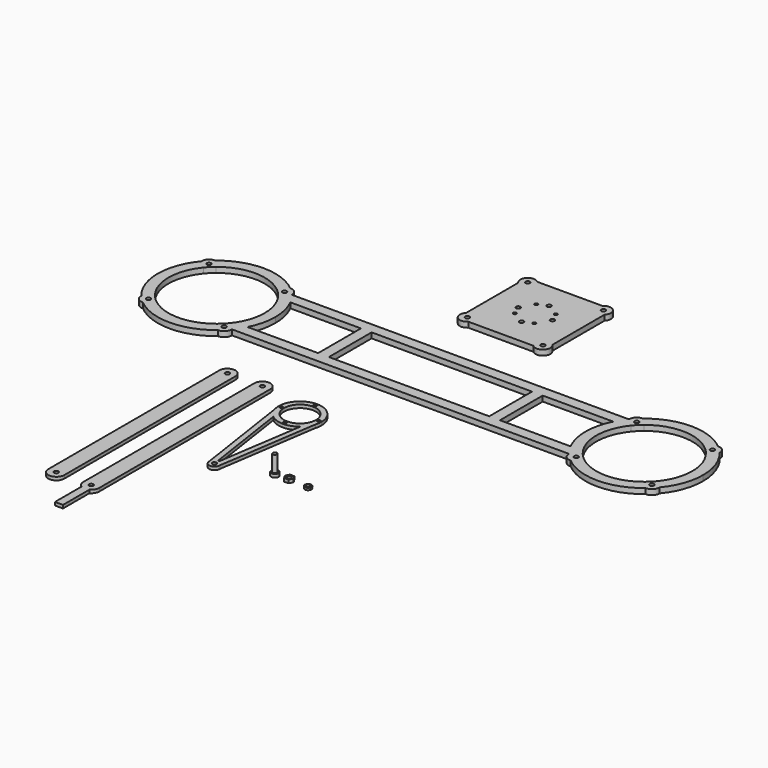
from build123d import *

# Parameters (mm, degrees)
F2_DEPTH  = 3
F1_R      = 1.5
F1_R_2    = 2
F3_R      = 3.5
F4_DEPTH  = 3
F3_R_2    = 2
F3_R_3    = 3
F5_DEPTH  = 1
F6_R      = 3.1
F6_R_2    = 3
F6_R_3    = 2
F8_DEPTH  = 0.5
F7_R      = 3.1
F7_R_2    = 2
F9_DEPTH  = 0.5
F11_DEPTH = 2
F12_R     = 2
F13_DEPTH = 15
F14_R     = 2
F14_W     = 10
F14_H     = 50
F15_DEPTH = 5
F16_R     = 2
F16_R_2   = 1.5
F17_DEPTH = 5


with BuildPart() as f2:
    # F1 (on Top) → F2 (new body)
    with BuildSketch(Plane.XY):
        with BuildLine():
            ThreePointArc((-126.6536758628, 100), (-119.1536758628, 92.5), (-111.6536758628, 100))
            Line((-111.6536758628, 100), (-117.1536758628, 100))
            ThreePointArc((-117.1536758628, 100), (-119.1536758628, 98), (-121.1536758628, 100))
            Line((-121.1536758628, 100), (-126.6536758628, 100))
        make_face()
        with BuildLine():
            Line((-117.1536758628, 100), (-111.6536758628, 100))
            ThreePointArc((-111.6536758628, 100), (-119.1536758628, 107.5), (-126.6536758628, 100))
            Line((-126.6536758628, 100), (-121.1536758628, 100))
            ThreePointArc((-121.1536758628, 100), (-119.1536758628, 102), (-117.1536758628, 100))
        make_face()
        with BuildLine():
            Line((-111.6536758628, -100), (-111.6536758628, 100))
            ThreePointArc((-111.6536758628, 100), (-119.1536758628, 92.5), (-126.6536758628, 100))
            Line((-126.6536758628, 100), (-126.6536758628, -100))
            ThreePointArc((-126.6536758628, -100), (-119.1536758628, -92.5), (-111.6536758628, -100))
        make_face()
        with BuildLine():
            ThreePointArc((-126.6536758628, -100), (-119.1536758628, -107.5), (-111.6536758628, -100))
            Line((-111.6536758628, -100), (-117.1536758628, -100))
            ThreePointArc((-117.1536758628, -100), (-119.1536758628, -102), (-121.1536758628, -100))
            Line((-121.1536758628, -100), (-126.6536758628, -100))
        make_face()
        with BuildLine():
            Line((-117.1536758628, -100), (-111.6536758628, -100))
            ThreePointArc((-111.6536758628, -100), (-119.1536758628, -92.5), (-126.6536758628, -100))
            Line((-126.6536758628, -100), (-121.1536758628, -100))
            ThreePointArc((-121.1536758628, -100), (-119.1536758628, -98), (-117.1536758628, -100))
        make_face()
    extrude(amount=F2_DEPTH)


with BuildPart() as f2b:
    # F1 (on Top) → F2, piece 2 (new body)
    with BuildSketch(Plane.XY):
        with BuildLine():
            ThreePointArc((-94.0209400654, 100), (-86.5209400654, 92.5), (-79.0209400654, 100))
            Line((-79.0209400654, 100), (-84.5209400654, 100))
            ThreePointArc((-84.5209400654, 100), (-86.5209400654, 98), (-88.5209400654, 100))
            Line((-88.5209400654, 100), (-94.0209400654, 100))
        make_face()
        with BuildLine():
            Line((-84.5209400654, 100), (-79.0209400654, 100))
            ThreePointArc((-79.0209400654, 100), (-86.5209400654, 107.5), (-94.0209400654, 100))
            Line((-94.0209400654, 100), (-88.5209400654, 100))
            ThreePointArc((-88.5209400654, 100), (-86.5209400654, 102), (-84.5209400654, 100))
        make_face()
        with BuildLine():
            Line((-79.0209400654, -100), (-79.0209400654, 100))
            ThreePointArc((-79.0209400654, 100), (-86.5209400654, 92.5), (-94.0209400654, 100))
            Line((-94.0209400654, 100), (-94.0209400654, -100))
            ThreePointArc((-94.0209400654, -100), (-86.5209400654, -92.5), (-79.0209400654, -100))
        make_face()
        with BuildLine():
            ThreePointArc((-82.9319413497, -106.5855211046), (-80.072394091, -103.8296546602), (-79.0209400654, -100))
            Line((-79.0209400654, -100), (-84.5209400654, -100))
            ThreePointArc((-84.5209400654, -100), (-86.5209400654, -102), (-88.5209400654, -100))
            Line((-88.5209400654, -100), (-94.0209400654, -100))
            ThreePointArc((-94.0209400654, -100), (-93.0624425546, -103.6686162492), (-90.4319413497, -106.3995366203))
            ThreePointArc((-90.4319413497, -106.3995366203), (-86.7068673917, -107.4976950478), (-82.9319413497, -106.5855211046))
        make_face()
        with BuildLine():
            Line((-84.5209400654, -100), (-79.0209400654, -100))
            ThreePointArc((-79.0209400654, -100), (-86.5209400654, -92.5), (-94.0209400654, -100))
            Line((-94.0209400654, -100), (-88.5209400654, -100))
            ThreePointArc((-88.5209400654, -100), (-86.5209400654, -98), (-84.5209400654, -100))
        make_face()
        with BuildLine():
            Line((-82.9319413497, -137.4982717066), (-82.9319413497, -106.5855211046))
            ThreePointArc((-82.9319413497, -106.5855211046), (-86.7068673917, -107.4976950478), (-90.4319413497, -106.3995366203))
            Line((-90.4319413497, -106.3995366203), (-90.4319413497, -137.4982717066))
            Line((-90.4319413497, -137.4982717066), (-82.9319413497, -137.4982717066))
        make_face()
    extrude(amount=F2_DEPTH)


with BuildPart() as f2c:
    # F1 (on Top) → F2, piece 3 (new body)
    with BuildSketch(Plane.XY):
        with BuildLine():
            Line((-18.4389891736, 77.0106934758), (-17.5587935746, 82.8786641359))
            ThreePointArc((-17.5587935746, 82.8786641359), (-37.5587935746, 102.8786641359), (-57.5587935746, 82.8786641359))
            Line((-57.5587935746, 82.8786641359), (-56.6785979755, 77.0106934758))
            ThreePointArc((-56.6785979755, 77.0106934758), (-54.1442857163, 71.7018376446), (-50.1750510415, 67.3599642056))
            ThreePointArc((-50.1750510415, 67.3599642056), (-37.5587928638, 62.8786641359), (-24.9425350045, 67.3599651024))
            ThreePointArc((-24.9425350045, 67.3599651024), (-20.9733010356, 71.7018382341), (-18.4389891736, 77.0106934758))
        make_face()
        with Locations((-55.0587935746, 82.8786641359)):
            Circle(F1_R, mode=Mode.SUBTRACT)
        with Locations((-37.5587935746, 65.3786641359)):
            Circle(F1_R, mode=Mode.SUBTRACT)
        with BuildLine():
            ThreePointArc((-22.562790708, 83.2249270793), (-22.5597928912, 83.0518071426), (-22.5587935746, 82.8786641359))
            ThreePointArc((-22.5587935746, 82.8786641359), (-37.7319393797, 67.8796634849), (-52.5547963119, 83.2249326751))
            ThreePointArc((-52.5547963119, 83.2249326751), (-37.5587907759, 97.8786641359), (-22.562790708, 83.2249270793))
        make_face(mode=Mode.SUBTRACT)
        with Locations((-37.5587935746, 100.3786641359)):
            Circle(F1_R, mode=Mode.SUBTRACT)
        with Locations((-20.0587935746, 82.8786641359)):
            Circle(F1_R, mode=Mode.SUBTRACT)
        with BuildLine():
            ThreePointArc((-18.4389891736, 77.0106934758), (-17.7800665172, 79.9118550773), (-17.5587935746, 82.8786641359))
            Line((-17.5587935746, 82.8786641359), (-18.4389891736, 77.0106934758))
        make_face()
        with BuildLine():
            Line((-56.6785979755, 77.0106934758), (-57.5587935746, 82.8786641359))
            ThreePointArc((-57.5587935746, 82.8786641359), (-57.3375206319, 79.9118550773), (-56.6785979755, 77.0106934758))
        make_face()
        with BuildLine():
            Line((-32.5587935746, -17.1213358641), (-18.4389891736, 77.0106934758))
            ThreePointArc((-18.4389891736, 77.0106934758), (-20.9733010356, 71.7018382341), (-24.9425350045, 67.3599651024))
            Line((-24.9425350045, 67.3599651024), (-36.871842401, -12.1687508739))
            ThreePointArc((-36.871842401, -12.1687508739), (-33.7881997309, -13.8376455519), (-32.5587935746, -17.1213358641))
        make_face()
        with BuildLine():
            ThreePointArc((-50.1750510415, 67.3599642056), (-54.1442857163, 71.7018376446), (-56.6785979755, 77.0106934758))
            Line((-56.6785979755, 77.0106934758), (-42.5587935746, -17.1213358641))
            ThreePointArc((-42.5587935746, -17.1213358641), (-41.3293871037, -13.8376451907), (-38.2457437993, -12.1687507423))
            Line((-38.2457437993, -12.1687507423), (-50.1750510415, 67.3599642056))
        make_face()
        with BuildLine():
            ThreePointArc((-42.5587935746, -17.1213358641), (-37.5587935746, -22.1213358641), (-32.5587935746, -17.1213358641))
            ThreePointArc((-32.5587935746, -17.1213358641), (-33.7881997309, -13.8376455519), (-36.871842401, -12.1687508739))
            ThreePointArc((-36.871842401, -12.1687508739), (-37.5587930956, -12.1213358641), (-38.2457437993, -12.1687507423))
            ThreePointArc((-38.2457437993, -12.1687507423), (-41.3293871037, -13.8376451907), (-42.5587935746, -17.1213358641))
        make_face()
        with Locations((-37.5587935746, -17.1213358641)):
            Circle(F1_R_2, mode=Mode.SUBTRACT)
    extrude(amount=F2_DEPTH)


with BuildPart() as f4:
    # F3 (on Top) → F4 (new body)
    with BuildSketch(Plane.XY):
        with Locations((5.2804468024, 0)):
            Circle(F3_R)
    extrude(amount=F4_DEPTH)

    # F10 (on face) → F11 (cut)
    with BuildSketch(Plane(origin=(0, 0, 0), x_dir=(1, 0, 0), z_dir=(0, 0, -1))):
        Polygon((4.125746264, -2), (6.4351473408, -2), (7.5898478791, 0), (6.4351473408, 2), (4.125746264, 2), (2.9710457256, 0), align=None)
    extrude(amount=-F11_DEPTH, mode=Mode.SUBTRACT)

    # F12 (on face) → F13 (join)
    with BuildSketch(Plane.XY.offset(3)):
        with Locations((5.2804468024, 0)):
            Circle(F12_R)
    extrude(amount=F13_DEPTH)


with BuildPart() as f4b:
    # F3 (on Top) → F4, piece 2 (new body)
    with BuildSketch(Plane.XY):
        Polygon((16.6168921078, -3.5), (20.6583439921, -3.5), (22.6790699343, 0), (20.6583439921, 3.5), (16.6168921078, 3.5), (14.5961661657, 0), align=None)
        with Locations((18.63761805, 0)):
            Circle(F3_R_2, mode=Mode.SUBTRACT)
    extrude(amount=F4_DEPTH)


with BuildPart() as f5:
    # F3 (on Top) → F5 (new body)
    with BuildSketch(Plane.XY):
        with Locations((36.2847968936, 0)):
            Circle(F3_R_3)
        with Locations((36.2847968936, 0)):
            Circle(F3_R_2, mode=Mode.SUBTRACT)
    extrude(amount=F5_DEPTH)

    # F6 (on face) → F8 (join)
    with BuildSketch(Plane.XY.offset(1)):
        with Locations((36.2847968936, 0)):
            Circle(F6_R)
        with Locations((36.2847968936, 0)):
            Circle(F6_R_2, mode=Mode.SUBTRACT)
        with Locations((36.2847968936, 0)):
            Circle(F6_R_2)
        with Locations((36.2847968936, 0)):
            Circle(F6_R_3, mode=Mode.SUBTRACT)
    extrude(amount=F8_DEPTH)

    # F7 (on face) → F9 (join)
    with BuildSketch(Plane.XY):
        with Locations((36.2847968936, 0)):
            Circle(F7_R)
        with Locations((36.2847968936, 0)):
            Circle(F7_R_2, mode=Mode.SUBTRACT)
    extrude(amount=-F9_DEPTH)


with BuildPart() as f15:
    # F14 (on Top) → F15 (new body)
    with BuildSketch(Plane.XY):
        with BuildLine():
            ThreePointArc((157.5735931288, 153.3589458766), (154.0192378865, 158.1799877193), (151.0102051443, 163.3589458766))
            Line((151.0102051443, 163.3589458766), (85, 163.3589458766))
            Line((85, 163.3589458766), (75, 163.3589458766))
            Line((75, 163.3589458766), (-75, 163.3589458766))
            Line((-75, 163.3589458766), (-85, 163.3589458766))
            Line((-85, 163.3589458766), (-151.0102051443, 163.3589458766))
            ThreePointArc((-151.0102051443, 163.3589458766), (-154.0192378865, 158.1799877193), (-157.5735931288, 153.3589458766))
            Line((-157.5735931288, 153.3589458766), (157.5735931288, 153.3589458766))
        make_face()
        with BuildLine():
            ThreePointArc((151.0102051443, 213.3589458766), (145, 188.3589458766), (151.0102051443, 163.3589458766))
            ThreePointArc((151.0102051443, 163.3589458766), (154.0192378865, 158.1799877193), (157.5735931288, 153.3589458766))
            ThreePointArc((157.5735931288, 153.3589458766), (157.611580566, 153.3129489883), (157.6496178711, 153.2669933299))
            ThreePointArc((157.6496178711, 153.2669933299), (159.943664009, 158.1901883358), (165.0679498346, 159.9907969901))
            ThreePointArc((165.0679498346, 159.9907969901), (155, 188.3589458766), (165.0679498346, 216.727094763))
            ThreePointArc((165.0679498346, 216.727094763), (159.943664009, 218.5277034173), (157.6496178711, 223.4508984232))
            ThreePointArc((157.6496178711, 223.4508984232), (157.611580566, 223.4049427648), (157.5735931288, 223.3589458766))
            ThreePointArc((157.5735931288, 223.3589458766), (154.0192378865, 218.5379040338), (151.0102051443, 213.3589458766))
        make_face()
        with BuildLine():
            Line((85, 213.3589458766), (151.0102051443, 213.3589458766))
            ThreePointArc((151.0102051443, 213.3589458766), (154.0192378865, 218.5379040338), (157.5735931288, 223.3589458766))
            Line((157.5735931288, 223.3589458766), (-157.5735931288, 223.3589458766))
            ThreePointArc((-157.5735931288, 223.3589458766), (-154.0192378865, 218.5379040338), (-151.0102051443, 213.3589458766))
            Line((-151.0102051443, 213.3589458766), (-85, 213.3589458766))
            Line((-85, 213.3589458766), (-75, 213.3589458766))
            Line((-75, 213.3589458766), (75, 213.3589458766))
            Line((75, 213.3589458766), (85, 213.3589458766))
        make_face()
        with BuildLine():
            ThreePointArc((-157.6496178711, 153.2669933299), (-157.611580566, 153.3129489883), (-157.5735931288, 153.3589458766))
            ThreePointArc((-157.5735931288, 153.3589458766), (-154.0192378865, 158.1799877193), (-151.0102051443, 163.3589458766))
            Line((-151.0102051443, 163.3589458766), (-162.5834261323, 163.3589458766))
            ThreePointArc((-162.5834261323, 163.3589458766), (-163.7865086383, 161.6459706885), (-165.0679498346, 159.9907969901))
            ThreePointArc((-165.0679498346, 159.9907969901), (-159.943664009, 158.1901883358), (-157.6496178711, 153.2669933299))
        make_face()
        with BuildLine():
            ThreePointArc((165.0679498346, 159.9907969901), (159.943664009, 158.1901883358), (157.6496178711, 153.2669933299))
            ThreePointArc((157.6496178711, 153.2669933299), (161.1091270347, 149.4680729113), (164.9080474533, 146.0085637477))
            ThreePointArc((164.9080474533, 146.0085637477), (169.6866697461, 148.1478733808), (171.6446609407, 153.0036068172))
            ThreePointArc((171.6446609407, 153.0036068172), (171.641457751, 153.2153481567), (171.6318511136, 153.4268957112))
            ThreePointArc((171.6318511136, 153.4268957112), (168.1801948466, 156.5391407232), (165.0679498346, 159.9907969901))
        make_face()
        with Locations((164.6446609407, 153.0036068172)):
            Circle(F14_R, mode=Mode.SUBTRACT)
        with BuildLine():
            ThreePointArc((164.9080474533, 146.0085637477), (161.1091270347, 149.4680729113), (157.6496178711, 153.2669933299))
            ThreePointArc((157.6496178711, 153.2669933299), (159.6949134724, 148.0538593489), (164.9080474533, 146.0085637477))
        make_face()
        with BuildLine():
            ThreePointArc((164.9080474533, 230.7093280054), (159.6949134724, 228.6640324042), (157.6496178711, 223.4508984232))
            ThreePointArc((157.6496178711, 223.4508984232), (161.1091270347, 227.2498188418), (164.9080474533, 230.7093280054))
        make_face()
        with BuildLine():
            ThreePointArc((164.9080474533, 230.7093280054), (161.1091270347, 227.2498188418), (157.6496178711, 223.4508984232))
            ThreePointArc((157.6496178711, 223.4508984232), (159.943664009, 218.5277034173), (165.0679498346, 216.727094763))
            ThreePointArc((165.0679498346, 216.727094763), (168.1801948466, 220.1787510299), (171.6318511136, 223.2909960419))
            ThreePointArc((171.6318511136, 223.2909960419), (171.641457751, 223.5025435964), (171.6446609407, 223.7142849359))
            ThreePointArc((171.6446609407, 223.7142849359), (169.6866697461, 228.5700183723), (164.9080474533, 230.7093280054))
        make_face()
        with Locations((164.6446609407, 223.7142849359)):
            Circle(F14_R, mode=Mode.SUBTRACT)
        with BuildLine():
            ThreePointArc((-151.0102051443, 213.3589458766), (-154.0192378865, 218.5379040338), (-157.5735931288, 223.3589458766))
            ThreePointArc((-157.5735931288, 223.3589458766), (-157.611580566, 223.4049427648), (-157.6496178711, 223.4508984232))
            ThreePointArc((-157.6496178711, 223.4508984232), (-159.943664009, 218.5277034173), (-165.0679498346, 216.727094763))
            ThreePointArc((-165.0679498346, 216.727094763), (-163.7865086383, 215.0719210646), (-162.5834261323, 213.3589458766))
            Line((-162.5834261323, 213.3589458766), (-151.0102051443, 213.3589458766))
        make_face()
        with BuildLine():
            ThreePointArc((-157.6446609407, 153.0036068172), (-157.645900283, 153.1353233938), (-157.6496178711, 153.2669933299))
            ThreePointArc((-157.6496178711, 153.2669933299), (-161.1091270347, 149.4680729113), (-164.9080474533, 146.0085637477))
            ThreePointArc((-164.9080474533, 146.0085637477), (-159.7889275042, 147.9615980118), (-157.6446609407, 153.0036068172))
        make_face()
        with BuildLine():
            ThreePointArc((-164.9080474533, 146.0085637477), (-161.1091270347, 149.4680729113), (-157.6496178711, 153.2669933299))
            ThreePointArc((-157.6496178711, 153.2669933299), (-159.943664009, 158.1901883358), (-165.0679498346, 159.9907969901))
            ThreePointArc((-165.0679498346, 159.9907969901), (-168.1801948466, 156.5391407232), (-171.6318511136, 153.4268957112))
            ThreePointArc((-171.6318511136, 153.4268957112), (-169.8312424592, 148.3026098856), (-164.9080474533, 146.0085637477))
        make_face()
        with Locations((-164.6446609407, 153.0036068172)):
            Circle(F14_R, mode=Mode.SUBTRACT)
        with BuildLine():
            ThreePointArc((171.6446609407, 153.0036068172), (169.6866697461, 148.1478733808), (164.9080474533, 146.0085637477))
            ThreePointArc((164.9080474533, 146.0085637477), (200, 133.3589458766), (235.0919525467, 146.0085637477))
            ThreePointArc((235.0919525467, 146.0085637477), (230.1687575408, 148.3026098856), (228.3681488864, 153.4268957112))
            ThreePointArc((228.3681488864, 153.4268957112), (200, 143.3589458766), (171.6318511136, 153.4268957112))
            ThreePointArc((171.6318511136, 153.4268957112), (171.641457751, 153.2153481567), (171.6446609407, 153.0036068172))
        make_face()
        with BuildLine():
            ThreePointArc((235.0919525467, 230.7093280054), (200, 243.3589458766), (164.9080474533, 230.7093280054))
            ThreePointArc((164.9080474533, 230.7093280054), (169.6866697461, 228.5700183723), (171.6446609407, 223.7142849359))
            ThreePointArc((171.6446609407, 223.7142849359), (171.641457751, 223.5025435964), (171.6318511136, 223.2909960419))
            ThreePointArc((171.6318511136, 223.2909960419), (200, 233.3589458766), (228.3681488864, 223.2909960419))
            ThreePointArc((228.3681488864, 223.2909960419), (230.1687575408, 228.4152818675), (235.0919525467, 230.7093280054))
        make_face()
        with BuildLine():
            ThreePointArc((-165.0679498346, 216.727094763), (-159.943664009, 218.5277034173), (-157.6496178711, 223.4508984232))
            ThreePointArc((-157.6496178711, 223.4508984232), (-161.1091270347, 227.2498188418), (-164.9080474533, 230.7093280054))
            ThreePointArc((-164.9080474533, 230.7093280054), (-169.8312424592, 228.4152818675), (-171.6318511136, 223.2909960419))
            ThreePointArc((-171.6318511136, 223.2909960419), (-168.1801948466, 220.1787510299), (-165.0679498346, 216.727094763))
        make_face()
        with Locations((-164.6446609407, 223.7142849359)):
            Circle(F14_R, mode=Mode.SUBTRACT)
        with BuildLine():
            ThreePointArc((-164.9080474533, 230.7093280054), (-161.1091270347, 227.2498188418), (-157.6496178711, 223.4508984232))
            ThreePointArc((-157.6496178711, 223.4508984232), (-157.645900283, 223.5825683593), (-157.6446609407, 223.7142849359))
            ThreePointArc((-157.6446609407, 223.7142849359), (-159.7889275042, 228.7562937413), (-164.9080474533, 230.7093280054))
        make_face()
        with BuildLine():
            ThreePointArc((-235.0919525467, 146.0085637477), (-200, 133.3589458766), (-164.9080474533, 146.0085637477))
            ThreePointArc((-164.9080474533, 146.0085637477), (-169.8312424592, 148.3026098856), (-171.6318511136, 153.4268957112))
            ThreePointArc((-171.6318511136, 153.4268957112), (-200, 143.3589458766), (-228.3681488864, 153.4268957112))
            ThreePointArc((-228.3681488864, 153.4268957112), (-228.358542249, 153.2153481567), (-228.3553390593, 153.0036068172))
            ThreePointArc((-228.3553390593, 153.0036068172), (-230.3133302539, 148.1478733808), (-235.0919525467, 146.0085637477))
        make_face()
        with BuildLine():
            ThreePointArc((228.3681488864, 153.4268957112), (230.1687575408, 148.3026098856), (235.0919525467, 146.0085637477))
            ThreePointArc((235.0919525467, 146.0085637477), (238.8908729653, 149.4680729113), (242.3503821289, 153.2669933299))
            ThreePointArc((242.3503821289, 153.2669933299), (240.056335991, 158.1901883358), (234.9320501654, 159.9907969901))
            ThreePointArc((234.9320501654, 159.9907969901), (231.8198051534, 156.5391407232), (228.3681488864, 153.4268957112))
        make_face()
        with Locations((235.3553390593, 153.0036068172)):
            Circle(F14_R, mode=Mode.SUBTRACT)
        with BuildLine():
            ThreePointArc((242.3503821289, 153.2669933299), (238.8908729653, 149.4680729113), (235.0919525467, 146.0085637477))
            ThreePointArc((235.0919525467, 146.0085637477), (240.2110724958, 147.9615980118), (242.3553390593, 153.0036068172))
            ThreePointArc((242.3553390593, 153.0036068172), (242.354099717, 153.1353233938), (242.3503821289, 153.2669933299))
        make_face()
        with BuildLine():
            ThreePointArc((242.3553390593, 223.7142849359), (240.2110724958, 228.7562937413), (235.0919525467, 230.7093280054))
            ThreePointArc((235.0919525467, 230.7093280054), (238.8908729653, 227.2498188418), (242.3503821289, 223.4508984232))
            ThreePointArc((242.3503821289, 223.4508984232), (242.354099717, 223.5825683593), (242.3553390593, 223.7142849359))
        make_face()
        with BuildLine():
            ThreePointArc((242.3503821289, 223.4508984232), (238.8908729653, 227.2498188418), (235.0919525467, 230.7093280054))
            ThreePointArc((235.0919525467, 230.7093280054), (230.1687575408, 228.4152818675), (228.3681488864, 223.2909960419))
            ThreePointArc((228.3681488864, 223.2909960419), (231.8198051534, 220.1787510299), (234.9320501654, 216.727094763))
            ThreePointArc((234.9320501654, 216.727094763), (240.056335991, 218.5277034173), (242.3503821289, 223.4508984232))
        make_face()
        with Locations((235.3553390593, 223.7142849359)):
            Circle(F14_R, mode=Mode.SUBTRACT)
        with BuildLine():
            ThreePointArc((-171.6318511136, 223.2909960419), (-169.8312424592, 228.4152818675), (-164.9080474533, 230.7093280054))
            ThreePointArc((-164.9080474533, 230.7093280054), (-200, 243.3589458766), (-235.0919525467, 230.7093280054))
            ThreePointArc((-235.0919525467, 230.7093280054), (-230.3133302539, 228.5700183723), (-228.3553390593, 223.7142849359))
            ThreePointArc((-228.3553390593, 223.7142849359), (-228.358542249, 223.5025435964), (-228.3681488864, 223.2909960419))
            ThreePointArc((-228.3681488864, 223.2909960419), (-200, 233.3589458766), (-171.6318511136, 223.2909960419))
        make_face()
        with BuildLine():
            ThreePointArc((-242.3503821289, 153.2669933299), (-240.3050865276, 148.0538593489), (-235.0919525467, 146.0085637477))
            ThreePointArc((-235.0919525467, 146.0085637477), (-238.8908729653, 149.4680729113), (-242.3503821289, 153.2669933299))
        make_face()
        with BuildLine():
            ThreePointArc((-242.3503821289, 153.2669933299), (-238.8908729653, 149.4680729113), (-235.0919525467, 146.0085637477))
            ThreePointArc((-235.0919525467, 146.0085637477), (-230.3133302539, 148.1478733808), (-228.3553390593, 153.0036068172))
            ThreePointArc((-228.3553390593, 153.0036068172), (-228.358542249, 153.2153481567), (-228.3681488864, 153.4268957112))
            ThreePointArc((-228.3681488864, 153.4268957112), (-231.8198051534, 156.5391407232), (-234.9320501654, 159.9907969901))
            ThreePointArc((-234.9320501654, 159.9907969901), (-240.056335991, 158.1901883358), (-242.3503821289, 153.2669933299))
        make_face()
        with Locations((-235.3553390593, 153.0036068172)):
            Circle(F14_R, mode=Mode.SUBTRACT)
        with BuildLine():
            ThreePointArc((234.9320501654, 159.9907969901), (240.056335991, 158.1901883358), (242.3503821289, 153.2669933299))
            ThreePointArc((242.3503821289, 153.2669933299), (251.7410427856, 169.7078201342), (255, 188.3589458766))
            ThreePointArc((255, 188.3589458766), (251.7410427856, 207.0100716189), (242.3503821289, 223.4508984232))
            ThreePointArc((242.3503821289, 223.4508984232), (240.056335991, 218.5277034173), (234.9320501654, 216.727094763))
            ThreePointArc((234.9320501654, 216.727094763), (242.4083851228, 203.4098219733), (245, 188.3589458766))
            ThreePointArc((245, 188.3589458766), (242.4083851228, 173.3080697798), (234.9320501654, 159.9907969901))
        make_face()
        with BuildLine():
            ThreePointArc((-228.3553390593, 223.7142849359), (-230.3133302539, 228.5700183723), (-235.0919525467, 230.7093280054))
            ThreePointArc((-235.0919525467, 230.7093280054), (-238.8908729653, 227.2498188418), (-242.3503821289, 223.4508984232))
            ThreePointArc((-242.3503821289, 223.4508984232), (-240.056335991, 218.5277034173), (-234.9320501654, 216.727094763))
            ThreePointArc((-234.9320501654, 216.727094763), (-231.8198051534, 220.1787510299), (-228.3681488864, 223.2909960419))
            ThreePointArc((-228.3681488864, 223.2909960419), (-228.358542249, 223.5025435964), (-228.3553390593, 223.7142849359))
        make_face()
        with Locations((-235.3553390593, 223.7142849359)):
            Circle(F14_R, mode=Mode.SUBTRACT)
        with BuildLine():
            ThreePointArc((-242.3503821289, 223.4508984232), (-238.8908729653, 227.2498188418), (-235.0919525467, 230.7093280054))
            ThreePointArc((-235.0919525467, 230.7093280054), (-240.3050865276, 228.6640324042), (-242.3503821289, 223.4508984232))
        make_face()
        with BuildLine():
            ThreePointArc((-242.3503821289, 223.4508984232), (-255, 188.3589458766), (-242.3503821289, 153.2669933299))
            ThreePointArc((-242.3503821289, 153.2669933299), (-240.056335991, 158.1901883358), (-234.9320501654, 159.9907969901))
            ThreePointArc((-234.9320501654, 159.9907969901), (-245, 188.3589458766), (-234.9320501654, 216.727094763))
            ThreePointArc((-234.9320501654, 216.727094763), (-240.056335991, 218.5277034173), (-242.3503821289, 223.4508984232))
        make_face()
        with BuildLine():
            Line((-162.5834261323, 163.3589458766), (-151.0102051443, 163.3589458766))
            ThreePointArc((-151.0102051443, 163.3589458766), (-146.5236560849, 175.5027939846), (-145, 188.3589458766))
            ThreePointArc((-145, 188.3589458766), (-146.5236560849, 201.2150977685), (-151.0102051443, 213.3589458766))
            Line((-151.0102051443, 213.3589458766), (-162.5834261323, 213.3589458766))
            ThreePointArc((-162.5834261323, 213.3589458766), (-156.9375695992, 201.4213762774), (-155, 188.3589458766))
            ThreePointArc((-155, 188.3589458766), (-156.9375695992, 175.2965154757), (-162.5834261323, 163.3589458766))
        make_face()
        with Locations((-80, 188.3589458766)):
            Rectangle(F14_W, F14_H)
        with Locations((80, 188.3589458766)):
            Rectangle(F14_W, F14_H)
    extrude(amount=F15_DEPTH)


with BuildPart() as f17:
    # F16 (on Top) → F17 (new body)
    with BuildSketch(Plane.XY):
        with BuildLine():
            Line((30.4560205144, 351.346615057), (-30.4560205144, 351.346615057))
            ThreePointArc((-30.4560205144, 351.346615057), (-40.3047471425, 351.2963628511), (-40.3550006449, 341.4476362296))
            Line((-40.3550006449, 341.4476362296), (-40.3550006449, 280.5355938843))
            ThreePointArc((-40.3550006449, 280.5355938843), (-40.3047455864, 270.6868657067), (-30.4560173705, 270.6366181374))
            Line((-30.4560173705, 270.6366181374), (30.4560173705, 270.6366181374))
            ThreePointArc((30.4560173705, 270.6366181374), (40.3047459122, 270.6868660325), (40.355, 280.5355945426))
            Line((40.355, 280.5355945426), (40.355, 341.4476355714))
            ThreePointArc((40.355, 341.4476355714), (40.3047474683, 351.2963625253), (30.4560205144, 351.346615057))
        make_face()
        with Locations((-35.355, 275.636615057)):
            Circle(F16_R, mode=Mode.SUBTRACT)
        with Locations((-12.1261588511, 302.1623301756)):
            Circle(F16_R_2, mode=Mode.SUBTRACT)
        with Locations((-16, 310.991615057)):
            Circle(F16_R, mode=Mode.SUBTRACT)
        with Locations((35.355, 275.636615057)):
            Circle(F16_R, mode=Mode.SUBTRACT)
        with Locations((0, 294.991615057)):
            Circle(F16_R, mode=Mode.SUBTRACT)
        with Locations((8.8292848814, 298.8654562058)):
            Circle(F16_R_2, mode=Mode.SUBTRACT)
        with Locations((16, 310.991615057)):
            Circle(F16_R, mode=Mode.SUBTRACT)
        with Locations((-8.8292848814, 323.1177739081)):
            Circle(F16_R_2, mode=Mode.SUBTRACT)
        with Locations((-35.355, 346.346615057)):
            Circle(F16_R, mode=Mode.SUBTRACT)
        with Locations((12.1261588511, 319.8208999384)):
            Circle(F16_R_2, mode=Mode.SUBTRACT)
        with Locations((0, 326.991615057)):
            Circle(F16_R, mode=Mode.SUBTRACT)
        with Locations((35.355, 346.346615057)):
            Circle(F16_R, mode=Mode.SUBTRACT)
    extrude(amount=F17_DEPTH)


solid = Compound([f2.part, f2b.part, f2c.part, f4.part, f4b.part, f5.part, f15.part, f17.part])
